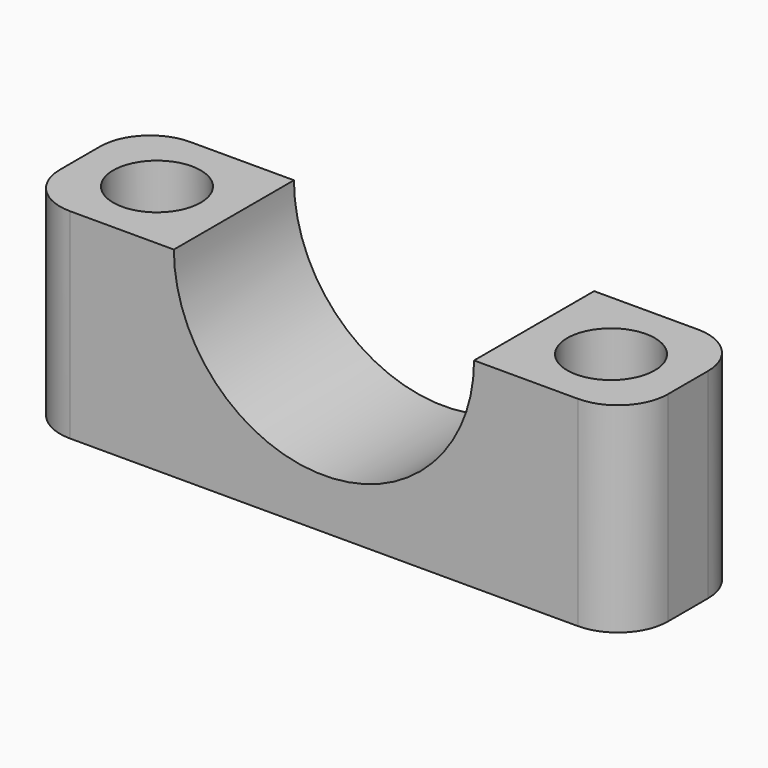
from build123d import *

# Parameters (mm, degrees)
F0_W     = 24.3
F0_H     = 6
F1_DEPTH = 8
F2_R     = 6
F3_DEPTH = 6.001
F4_R     = 1.75
F5_DEPTH = 8.001
F6_R     = 2


with BuildPart() as f1:
    # F0 (on Top) → F1 (new body)
    with BuildSketch(Plane.XY):
        Rectangle(F0_W, F0_H)
    extrude(amount=F1_DEPTH)

    # F2 (on face) → F3 (cut, through all)
    with BuildSketch(Plane.XZ.offset(3)):
        with Locations((0, 8)):
            Circle(F2_R)
    extrude(amount=-F3_DEPTH, mode=Mode.SUBTRACT)

    # F4 (on face) → F5 (cut, through all)
    with BuildSketch(Plane.XY.offset(8)):
        with Locations((-9.075, 0)):
            Circle(F4_R)
        with Locations((9.075, 0)):
            Circle(F4_R)
    extrude(amount=-F5_DEPTH, mode=Mode.SUBTRACT)

    # F6
    f6_edges = [f1.edges().sort_by_distance(p)[0] for p in [
        (-12.15, -3, 4),
        (-12.15, 3, 4),
        (12.15, -3, 4),
        (12.15, 3, 4),
    ]]
    fillet(f6_edges, radius=F6_R)


solid = f1.part
